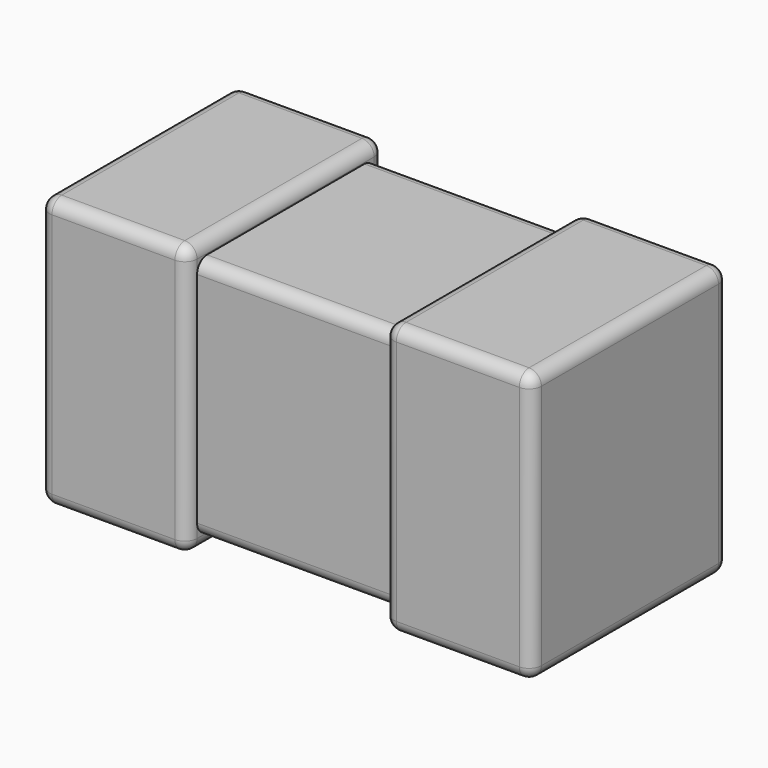
from build123d import *

# Parameters (mm, degrees)
SKETCH002_W  = 0.3
SKETCH002_H  = 0.55
PAD002_DEPTH = 0.25
FILLET001_R  = 0.025
SKETCH001_W  = 0.3
SKETCH001_H  = 0.55
PAD001_DEPTH = 0.25
FILLET_R     = 0.025
SKETCH_W     = 0.9
SKETCH_H     = 0.45
PAD_DEPTH    = 0.495
FILLET002_R  = 0.025


with BuildPart() as body002:
    # Sketch002 → Pad002 (new body, symmetric)
    with BuildSketch(Plane.XZ):
        with Locations((0.35, 0.275)):
            Rectangle(SKETCH002_W, SKETCH002_H)
    extrude(amount=PAD002_DEPTH, both=True)

    # Fillet001
    fillet001_edges = [body002.edges().sort_by_distance(p)[0] for p in [
        (0.5, 0, 0),
        (0.5, 0.25, 0.275),
        (0.5, -0.25, 0.275),
        (0.5, 0, 0.55),
        (0.35, -0.25, 0.55),
        (0.35, 0.25, 0.55),
        (0.2, 0, 0.55),
        (0.2, -0.25, 0.275),
        (0.35, -0.25, 0),
        (0.2, 0, 0),
        (0.2, 0.25, 0.275),
        (0.35, 0.25, 0),
    ]]
    fillet(fillet001_edges, radius=FILLET001_R)


with BuildPart() as body001:
    # Sketch001 → Pad001 (new body, symmetric)
    with BuildSketch(Plane.XZ):
        with Locations((-0.35, 0.275)):
            Rectangle(SKETCH001_W, SKETCH001_H)
    extrude(amount=PAD001_DEPTH, both=True)

    # Fillet
    fillet_edges = [body001.edges().sort_by_distance(p)[0] for p in [
        (-0.5, 0, 0.55),
        (-0.5, 0.25, 0.275),
        (-0.35, 0.25, 0.55),
        (-0.2, 0.25, 0.275),
        (-0.35, 0.25, 0),
        (-0.2, 0, 0),
        (-0.5, 0, 0),
        (-0.5, -0.25, 0.275),
        (-0.35, -0.25, 0),
        (-0.2, -0.25, 0.275),
        (-0.35, -0.25, 0.55),
        (-0.2, 0, 0.55),
    ]]
    fillet(fillet_edges, radius=FILLET_R)


with BuildPart() as fusion:
    # Sketch → Pad (new body)
    with BuildSketch(Plane.XY.offset(0.0275)):
        Rectangle(SKETCH_W, SKETCH_H)
    extrude(amount=PAD_DEPTH)

    # Fillet002
    fillet002_edges = [fusion.edges().sort_by_distance(p)[0] for p in [
        (0, -0.225, 0.5225),
        (0, 0.225, 0.5225),
        (0, -0.225, 0.0275),
        (0, 0.225, 0.0275),
    ]]
    fillet(fillet002_edges, radius=FILLET002_R)

    # Fusion: union Body002, Body001
    add(body002.part)
    add(body001.part)


solid = fusion.part
